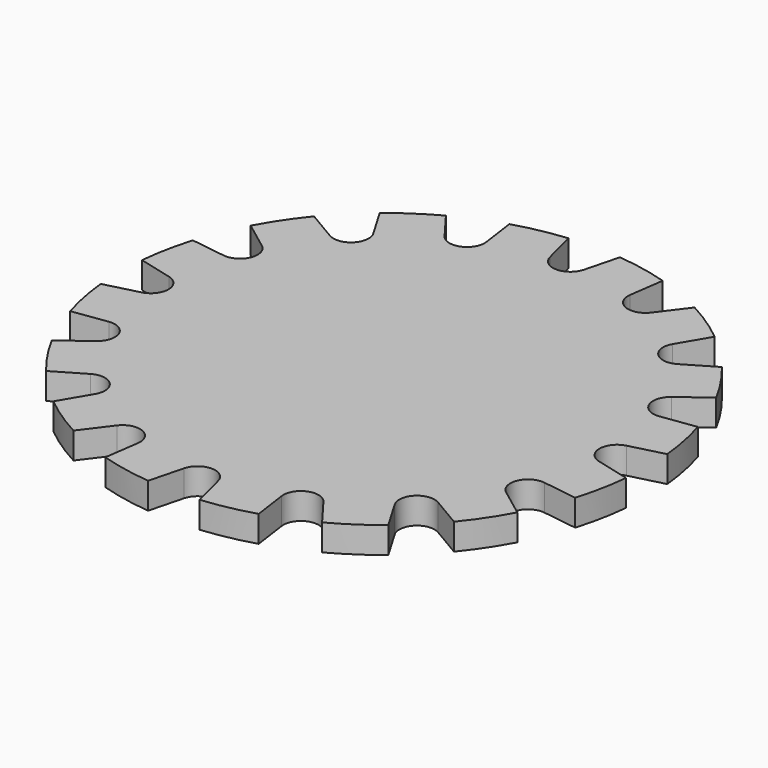
from build123d import *

# Parameters (mm, degrees)
SKETCH012_R        = 15
PAD010_DEPTH       = 1.5
POCKET_DEPTH       = 84.90683
POCKET_DEPTH_BACK  = 86.40683
POLARPATTERN_COUNT = 16


with BuildPart() as part:
    # Sketch012 → Pad010 (new body)
    with BuildSketch(Plane.XY):
        Circle(SKETCH012_R)
    extrude(amount=PAD010_DEPTH)

    # Sketch013 → Pocket (cut, two sides)
    with BuildSketch(Plane.XY) as pocket_sk:
        with BuildLine():
            Line((-2, 17), (2, 17))
            Line((2, 17), (0.968311, 13))
            ThreePointArc((-0.968311, 13), (0, 12.249749), (0.968311, 13))
            Line((-0.968311, 13), (-2, 17))
        make_face()
    pocket = extrude(amount=-POCKET_DEPTH, mode=Mode.SUBTRACT) + extrude(pocket_sk.sketch, amount=POCKET_DEPTH_BACK, mode=Mode.SUBTRACT)

    # PolarPattern: Pocket ×16 about axis
    polarpattern_axis = Axis((0, 0, 0), (0, 0, 1))
    for i in range(1, POLARPATTERN_COUNT):
        add(pocket.rotate(polarpattern_axis, i * 360 / POLARPATTERN_COUNT), mode=Mode.SUBTRACT)


with BuildPart() as part_1:
    # Body011 placement: moved
    add(part.part.moved(Location((0, 0, 338))))


solid = part_1.part
